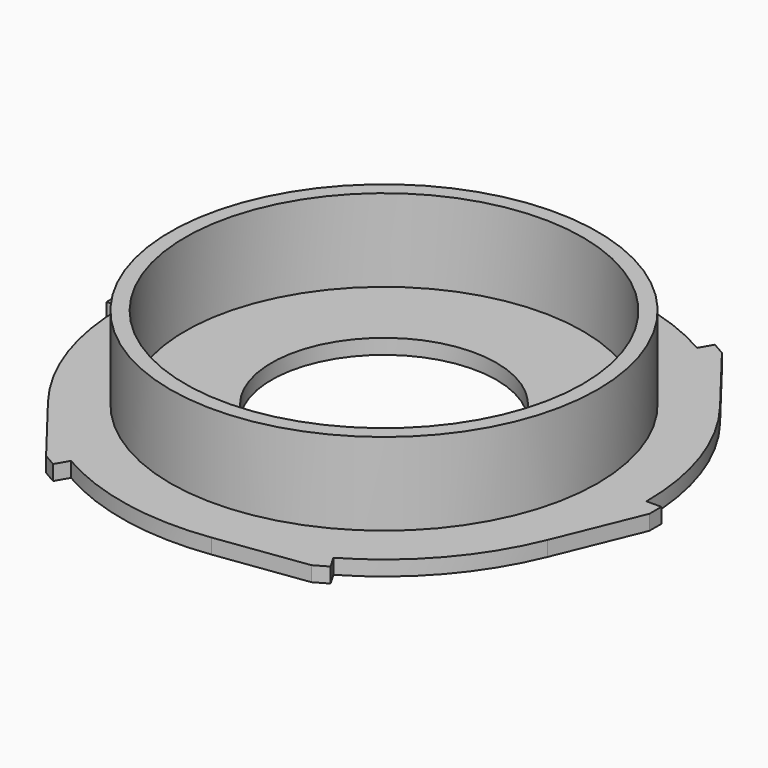
from build123d import *

# Parameters (mm, degrees)
F3_DEPTH = 2


with BuildPart() as f1:
    # F0 (on Front) → F1 (revolve)
    with BuildSketch(Plane.XZ):
        Polygon((15, 2), (15, 0), (28.5, 0), (35, 0), (35, 2), (28.5, 2), (28.5, 13), (26.5, 13), (26.5, 2), align=None)
    revolve(axis=Axis((0, 0, 7.332612), (0, 0, 1)))

    # F2 (on Top) → F3 (join)
    with BuildSketch(Plane.XY):
        with BuildLine():
            Line((37, 0), (35, 0))
            ThreePointArc((35, 0), (34.341662, -6.756496), (32.391415, -13.258816))
            Line((32.391415, -13.258816), (37, -2))
            Line((37, -2), (37, 0))
        make_face()
        with BuildLine():
            Line((18.5, -32.04294), (17.5, -30.310889))
            ThreePointArc((17.5, -30.310889), (11.319534, -33.119), (4.713236, -34.681197))
            Line((4.713236, -34.681197), (16.767949, -33.04294))
            Line((16.767949, -33.04294), (18.5, -32.04294))
        make_face()
        with BuildLine():
            ThreePointArc((17.5, 30.310889), (23.022128, 26.362504), (27.67818, 21.42238))
            Line((27.67818, 21.42238), (20.232051, 31.04294))
            Line((20.232051, 31.04294), (18.5, 32.04294))
            Line((18.5, 32.04294), (17.5, 30.310889))
        make_face()
        with BuildLine():
            ThreePointArc((-17.5, 30.310889), (-11.319534, 33.119), (-4.713236, 34.681197))
            Line((-4.713236, 34.681197), (-16.767949, 33.04294))
            Line((-16.767949, 33.04294), (-18.5, 32.04294))
            Line((-18.5, 32.04294), (-17.5, 30.310889))
        make_face()
        with BuildLine():
            ThreePointArc((-35, 0), (-34.341662, 6.756496), (-32.391415, 13.258816))
            Line((-32.391415, 13.258816), (-37, 2))
            Line((-37, 2), (-37, 0))
            Line((-37, 0), (-35, 0))
        make_face()
        with BuildLine():
            Line((-18.5, -32.04294), (-17.5, -30.310889))
            ThreePointArc((-17.5, -30.310889), (-23.022128, -26.362504), (-27.67818, -21.42238))
            Line((-27.67818, -21.42238), (-20.232051, -31.04294))
            Line((-20.232051, -31.04294), (-18.5, -32.04294))
        make_face()
    extrude(amount=F3_DEPTH)


solid = f1.part
